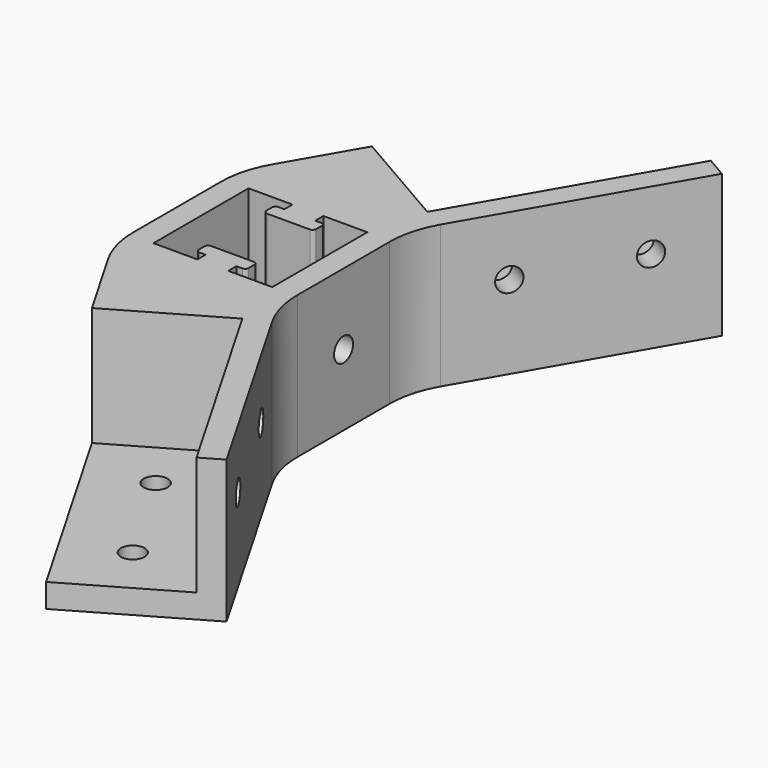
from build123d import *

# Parameters (mm, degrees)
F1_DEPTH       = 30
F3_DEPTH       = 50
F7_D           = 5
F7_DEPTH       = 12.7
F7_TIP         = 1.5021515476
F7_ON_F4_D     = 5
F7_ON_F4_DEPTH = 12.7
F7_ON_F4_TIP   = 1.5021515476
F7_ON_F6_D     = 5
F7_ON_F6_DEPTH = 12.7
F7_ON_F6_TIP   = 1.5021515476
F8_R           = 20


with BuildPart() as f1:
    # F0 (on Top) → F1 (new body)
    with BuildSketch(Plane.XY):
        with BuildLine():
            Line((-35, 16.8782217351), (-35, 0))
            Line((-35, 0), (-30, 0))
            Line((-30, 0), (-30, 12.5))
            Line((-30, 12.5), (-20.75, 12.5))
            Line((-20.75, 12.5), (-20.75, 10.37))
            Line((-20.75, 10.37), (-22, 10.37))
            ThreePointArc((-22, 10.37), (-22.5303300859, 10.1503300859), (-22.75, 9.62))
            Line((-22.75, 9.62), (-22.75, 8.12))
            ThreePointArc((-22.75, 8.12), (-22.5303300859, 7.5896699141), (-22, 7.37))
            Line((-22, 7.37), (-13, 7.37))
            ThreePointArc((-13, 7.37), (-12.4696699141, 7.5896699141), (-12.25, 8.12))
            Line((-12.25, 8.12), (-12.25, 9.62))
            ThreePointArc((-12.25, 9.62), (-12.4696699141, 10.1503300859), (-13, 10.37))
            Line((-13, 10.37), (-14.25, 10.37))
            Line((-14.25, 10.37), (-14.25, 12.5))
            Line((-14.25, 12.5), (-5, 12.5))
            Line((-5, 12.5), (-5, 0))
            Line((-5, 0), (0, 0))
            Line((0, 0), (0, 17.5))
            Line((0, 17.5), (2.5, 21.8301270189))
            Line((2.5, 21.8301270189), (-23.4807621135, 36.8301270189))
            Line((-23.4807621135, 36.8301270189), (-35, 16.8782217351))
        make_face()
    extrude(amount=F1_DEPTH)

    # F2 (on face) → F3 (join)
    with BuildSketch(Plane(origin=(10.0777222831, 17.4551270189, 0), x_dir=(-0.8660254038, 0.5, 0), z_dir=(0.5, 0.8660254038, 0))):
        Polygon((13.75, 30), (8.75, 30), (8.75, 0), (38.75, 0), (38.75, 5), (13.75, 5), align=None)
    extrude(amount=F3_DEPTH)

    # F7
    with Locations(Plane.YZ):
        with Locations((0, 15)):
            Hole(F7_D / 2, depth=F7_DEPTH)
            with Locations((0, 0, -(F7_DEPTH + F7_TIP / 2))):  # 118° drill point
                Cone(0, F7_D / 2, F7_TIP, mode=Mode.SUBTRACT)

    # F7 on F4
    with Locations(Plane(origin=(0, 0, 0), x_dir=(1, 0, 0), z_dir=(0, 0, -1))):
        with Locations((-6.4054445662, -41.4054445662), (6.0945554338, -63.0560796608)):
            Hole(F7_ON_F4_D / 2, depth=F7_ON_F4_DEPTH)
            with Locations((0, 0, -(F7_ON_F4_DEPTH + F7_ON_F4_TIP / 2))):  # 118° drill point
                Cone(0, F7_ON_F4_D / 2, F7_ON_F4_TIP, mode=Mode.SUBTRACT)

    # F7 on F6
    with Locations(Plane(origin=(-7.5777222831, 4.375, 0), x_dir=(0.5, 0.8660254038, 0), z_dir=(0.8660254038, -0.5, 0))):
        with Locations((32.6554445662, 17.5), (57.6554445662, 17.5)):
            Hole(F7_ON_F6_D / 2, depth=F7_ON_F6_DEPTH)
            with Locations((0, 0, -(F7_ON_F6_DEPTH + F7_ON_F6_TIP / 2))):  # 118° drill point
                Cone(0, F7_ON_F6_D / 2, F7_ON_F6_TIP, mode=Mode.SUBTRACT)

    # F8
    f8_edges = [f1.edges().sort_by_distance(p)[0] for p in [
        (-35, 16.878222, 15),
        (0, 17.5, 15),
    ]]
    fillet(f8_edges, radius=F8_R)

    # F9: F1 across plane


with BuildPart() as f1_1:
    add(f1.part)
    add(f1.part.mirror(Plane.XZ))


solid = f1_1.part
